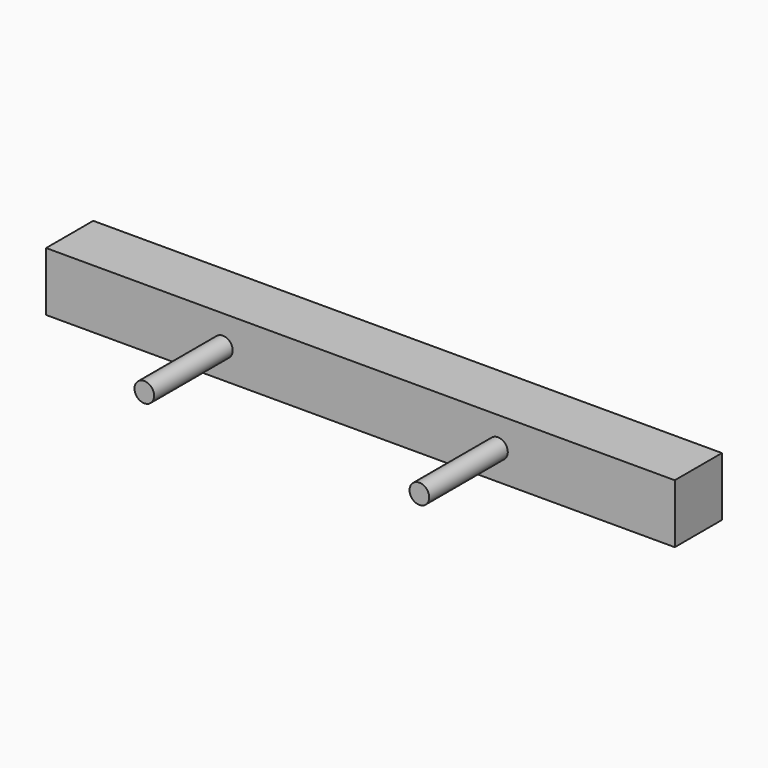
from build123d import *

# Parameters (mm, degrees)
F0_W     = 203.2
F0_H     = 19.05
F1_DEPTH = 19.05
F2_R     = 3.175
F3_DEPTH = 50.8


with BuildPart() as f1:
    # F0 (on Front) → F1 (new body)
    with BuildSketch(Plane.XZ):
        Rectangle(F0_W, F0_H)
    extrude(amount=F1_DEPTH)

    # F2 (on Front) → F3 (join)
    with BuildSketch(Plane.XZ):
        with BuildLine():
            ThreePointArc((47.625, 0), (44.45, 3.175), (41.275, 0))
            ThreePointArc((41.275, 0), (44.45, -3.175), (47.625, 0))
        make_face()
        with Locations((-44.45, 0)):
            Circle(F2_R)
    extrude(amount=F3_DEPTH)


solid = f1.part
